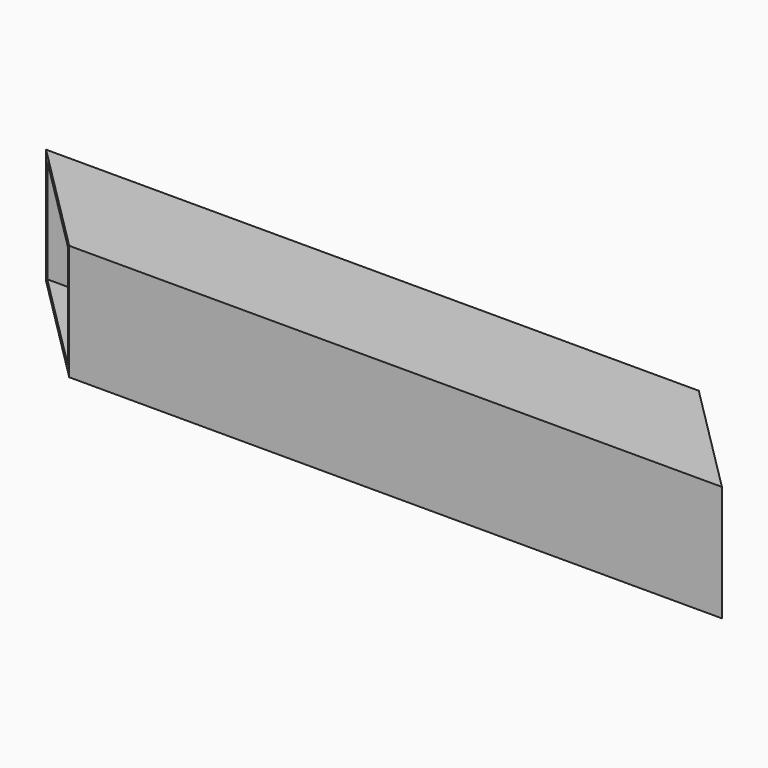
from build123d import *

# Parameters (mm, degrees)
F0_W     = 232
F0_H     = 50
F1_DEPTH = 50
F2_T     = -2.54


with BuildPart() as f1:
    # F0 (on Top) → F1 (new body)
    with BuildSketch(Plane.XY):
        Rectangle(F0_W, F0_H)
        Polygon((-166, 25), (-116, -25), (-116, 25), align=None)
        Polygon((116, 25), (116, -25), (166, -25), align=None)
    extrude(amount=F1_DEPTH)

    # F2
    f2_openings = [f1.faces().sort_by_distance(p)[0] for p in [
        (-141, 0, 25),
        (141, 0, 25),
    ]]
    offset(amount=F2_T, openings=f2_openings)


solid = f1.part
